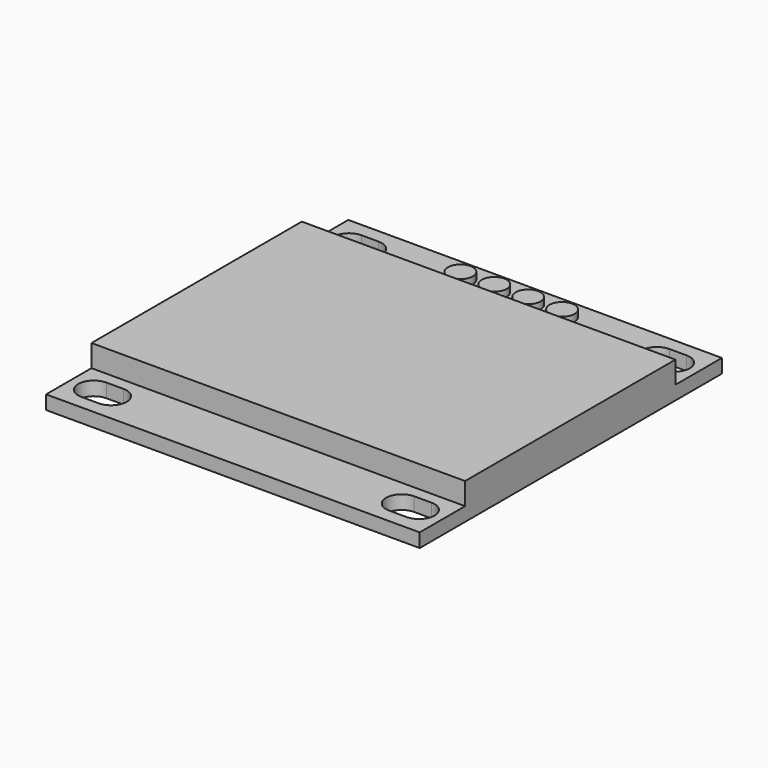
from build123d import *

# Parameters (mm, degrees)
SKETCH004_W     = 27
SKETCH004_H     = 27.3
PAD005_DEPTH    = 1
POCKET003_DEPTH = 1.001
SKETCH005_W     = 27
SKETCH005_H     = 19
PAD001_DEPTH    = 1.6
SKETCH006_R     = 0.9
PAD006_DEPTH    = 0.5


with BuildPart() as part:
    # Sketch004 → Pad005 (new body)
    with BuildSketch(Plane.XY):
        with Locations((13.5, 13.65)):
            Rectangle(SKETCH004_W, SKETCH004_H)
    extrude(amount=PAD005_DEPTH)

    # Sketch001 → Pocket003 (cut, through all)
    with BuildSketch(Plane.XY.offset(1)):
        with BuildLine():
            ThreePointArc((1.75, 26.3), (0.625, 25.175), (1.75, 24.05))
            Line((1.75, 24.05), (3, 24.05))
            ThreePointArc((3, 24.05), (4.125, 25.175), (3, 26.3))
            Line((1.75, 26.3), (3, 26.3))
        make_face()
        with BuildLine():
            ThreePointArc((24, 26.3), (22.875, 25.175), (24, 24.05))
            Line((24, 24.05), (25.25, 24.05))
            ThreePointArc((25.25, 24.05), (26.375, 25.175), (25.25, 26.3))
            Line((24, 26.3), (25.25, 26.3))
        make_face()
        with BuildLine():
            ThreePointArc((1.75, 3.25), (0.625, 2.125), (1.75, 1))
            Line((1.75, 1), (3, 1))
            ThreePointArc((3, 1), (4.125, 2.125), (3, 3.25))
            Line((1.75, 3.25), (3, 3.25))
        make_face()
        with BuildLine():
            ThreePointArc((24, 3.25), (22.875, 2.125), (24, 1))
            Line((24, 1), (25.25, 1))
            ThreePointArc((25.25, 1), (26.375, 2.125), (25.25, 3.25))
            Line((24, 3.25), (25.25, 3.25))
        make_face()
    extrude(amount=-POCKET003_DEPTH, mode=Mode.SUBTRACT)

    # Sketch005 → Pad001 (new body)
    with BuildSketch(Plane.XY.offset(1)):
        with Locations((13.5, 13.6)):
            Rectangle(SKETCH005_W, SKETCH005_H)
    extrude(amount=PAD001_DEPTH)

    # Sketch006 → Pad006 (new body)
    with BuildSketch(Plane.XY.offset(1)):
        with Locations((9.5, 25.55)):
            Circle(SKETCH006_R)
        with Locations((11.95, 25.55)):
            Circle(SKETCH006_R)
        with Locations((14.4, 25.55)):
            Circle(SKETCH006_R)
        with Locations((16.85, 25.55)):
            Circle(SKETCH006_R)
    extrude(amount=PAD006_DEPTH)


solid = part.part
